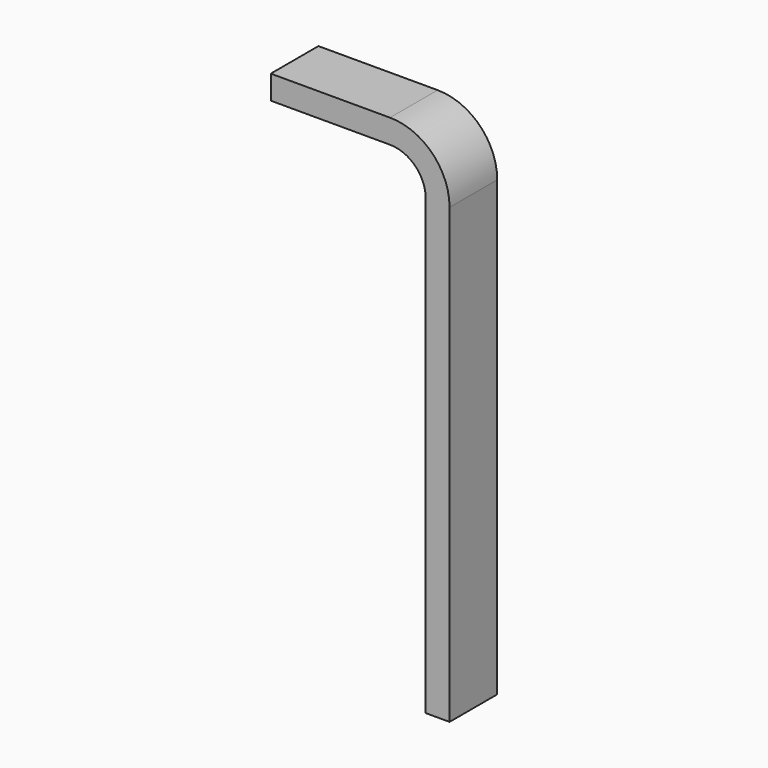
from build123d import *

# Parameters (mm, degrees)
F1_DEPTH      = 25
F1_DEPTH_BACK = 25


with BuildPart() as f1:
    # F0 (on Front) → F1 (new body, two sides)
    with BuildSketch(Plane.XZ) as f1_sk:
        with BuildLine():
            Line((100, 0), (0, 0))
            Line((0, 0), (0, -20))
            Line((0, -20), (100, -20))
            ThreePointArc((100, -20), (121.213203, -28.786797), (130, -50))
            Line((130, -50), (130, -430))
            Line((130, -430), (150, -430))
            Line((150, -430), (150, -50))
            ThreePointArc((150, -50), (135.355339, -14.644661), (100, 0))
        make_face()
    extrude(amount=F1_DEPTH)
    extrude(f1_sk.sketch, amount=-F1_DEPTH_BACK)


solid = f1.part
